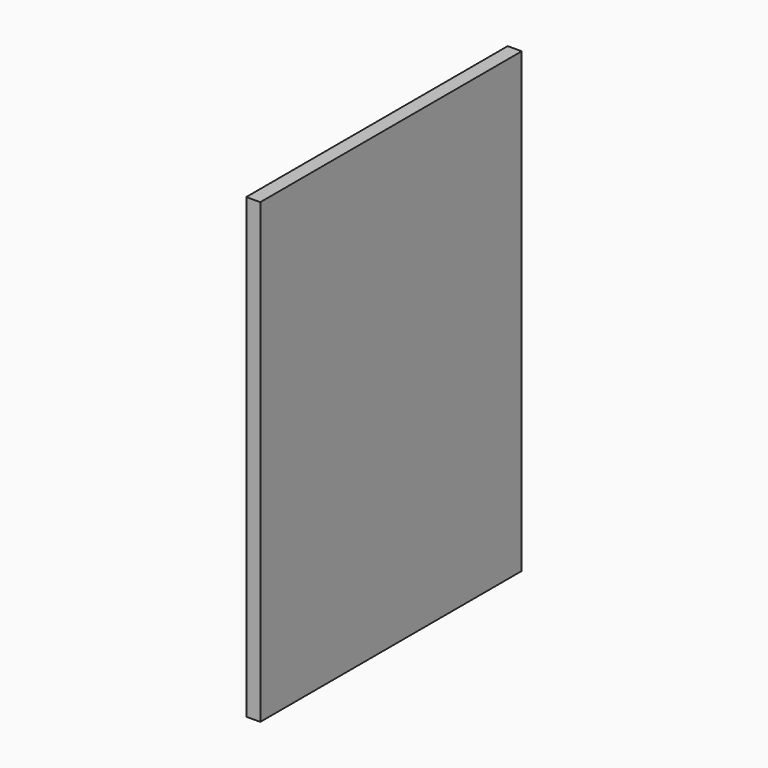
from build123d import *

# Parameters (mm, degrees)
SKETCH_W  = 420
SKETCH_H  = 588
PAD_DEPTH = 18


with BuildPart() as part:
    # Sketch → Pad (new body)
    with BuildSketch(Plane.YZ):
        with Locations((-210, 294)):
            Rectangle(SKETCH_W, SKETCH_H)
    extrude(amount=PAD_DEPTH)


solid = part.part
